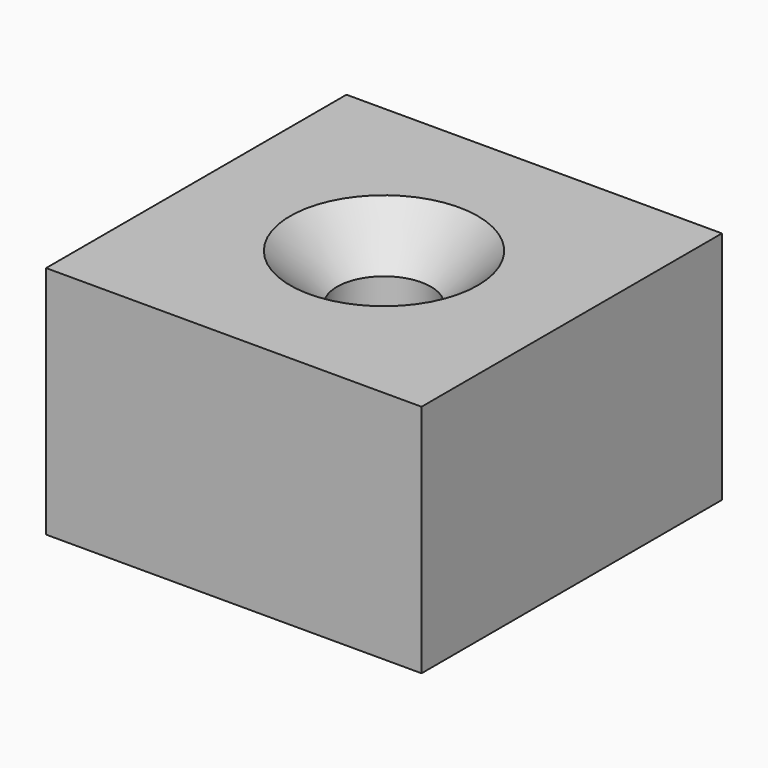
from build123d import *

# Parameters (mm, degrees)
F0_W     = 40
F0_H     = 40
F0_R     = 5
F1_DEPTH = 25
F2_SIZE  = 5


with BuildPart() as f1:
    # F0 (on Top) → F1 (new body)
    with BuildSketch(Plane.XY):
        with Locations((-3.696567, 4.601141)):
            Rectangle(F0_W, F0_H)
        with Locations((-3.696567, 4.601141)):
            Circle(F0_R, mode=Mode.SUBTRACT)
    extrude(amount=F1_DEPTH)

    # F2
    f2_edges = [f1.edges().sort_by_distance(p)[0] for p in [
        (-8.696567, 4.601141, 25),
    ]]
    chamfer(f2_edges, length=F2_SIZE)


solid = f1.part
